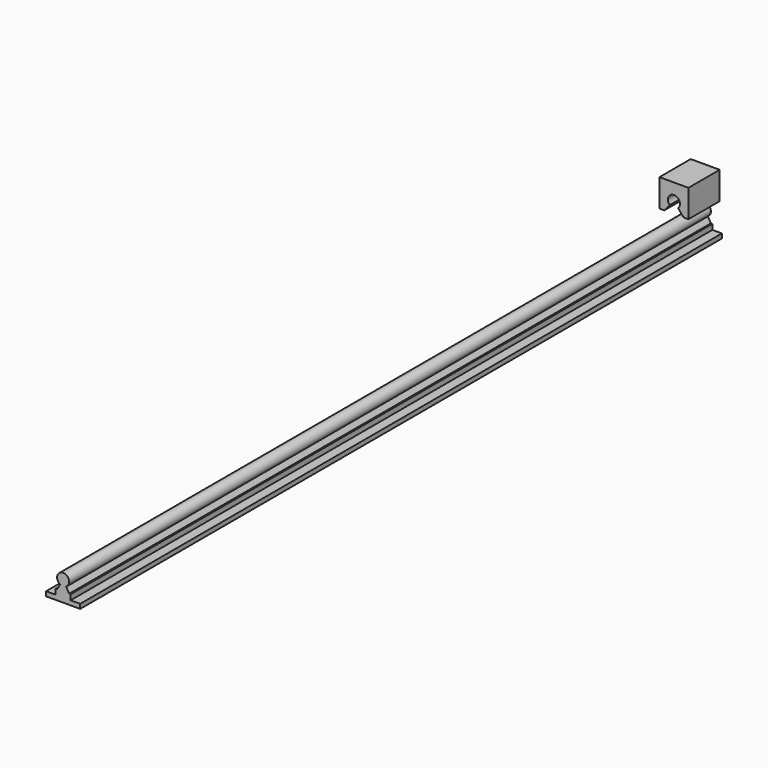
from build123d import *

# Parameters (mm, degrees)
F1_DEPTH = 800
F2_DEPTH = 39


with BuildPart() as f1:
    # F0 (on Front) → F1 (new body)
    with BuildSketch(Plane.XZ):
        with BuildLine():
            ThreePointArc((3, -5.196152), (0, 6), (-3, -5.196152))
            Line((-3, -5.196152), (-6.002221, -10.396152))
            Line((-6.002221, -10.396152), (-7.5, -10.396152))
            Line((-7.5, -10.396152), (-7.5, -15.696152))
            Line((-7.5, -15.696152), (-17, -15.696152))
            Line((-17, -15.696152), (-17, -20.196152))
            Line((-17, -20.196152), (17, -20.196152))
            Line((17, -20.196152), (17, -15.696152))
            Line((17, -15.696152), (7.5, -15.696152))
            Line((7.5, -15.696152), (7.5, -10.396152))
            Line((7.5, -10.396152), (6.002221, -10.396152))
            Line((6.002221, -10.396152), (3, -5.196152))
        make_face()
    extrude(amount=F1_DEPTH)


with BuildPart() as f2:
    # F0 (on Front) → F2 (new body)
    with BuildSketch(Plane.XZ):
        with BuildLine():
            Line((14.78852, 39.453124), (-14.127764, 39.453124))
            Line((-14.127764, 39.453124), (-14.127764, 11.853124))
            Line((-14.127764, 11.853124), (-9.260266, 11.853124))
            Line((-9.260266, 11.853124), (-3.919622, 18.217856))
            ThreePointArc((-3.919622, 18.217856), (0.330378, 28.453124), (4.580378, 18.217856))
            Line((4.580378, 18.217856), (9.921022, 11.853124))
            Line((9.921022, 11.853124), (14.78852, 11.853124))
            Line((14.78852, 11.853124), (14.78852, 39.453124))
        make_face()
    extrude(amount=F2_DEPTH)


solid = Compound([f1.part, f2.part])
